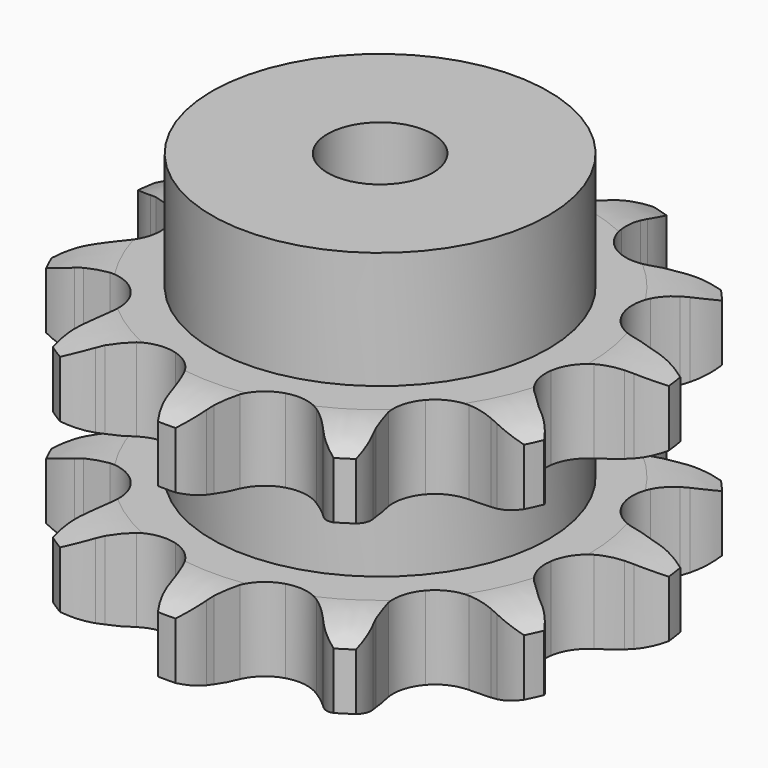
from build123d import *

# Parameters (mm, degrees)
PAD_DEPTH         = 47.7
SKETCH001_R       = 32
PAD001_DEPTH      = 70
SKETCH002_R       = 10
POCKET_DEPTH      = 0.0010001
POCKET_DEPTH_BACK = 70.001


with BuildPart() as part:
    # Sprocket → Pad (new body)
    with BuildSketch(Plane.XY):
        with BuildLine():
            ThreePointArc((-14.867367333, 50.6336032018), (-11.7124828061, 48.2458271339), (-9.3873921304, 45.0444642556))
            Line((-9.3873921304, 45.0444642556), (-8.7061246984, 43.7382927398))
            ThreePointArc((-8.7061246984, 43.7382927398), (-7.5124109734, 41.7336504323), (-6.1009120237, 39.8759061137))
            ThreePointArc((-6.1009120237, 39.8759061137), (-3.3596180258, 37.7982340011), (0, 37.0604122676))
            ThreePointArc((0, 37.0604122676), (3.3596180258, 37.7982340011), (6.1009120237, 39.8759061137))
            ThreePointArc((6.1009120237, 39.8759061137), (7.5124109734, 41.7336504323), (8.7061246984, 43.7382927398))
            Line((8.7061246984, 43.7382927398), (9.3873921304, 45.0444642556))
            ThreePointArc((9.3873921304, 45.0444642556), (11.7124828061, 48.2458271339), (14.867367333, 50.6336032018))
            ThreePointArc((14.867367333, 50.6336032018), (16.2304958817, 46.9192187995), (16.4556991832, 42.9690220447))
            Line((16.4556991832, 42.9690220447), (16.3226481812, 41.5018796612))
            ThreePointArc((16.3226481812, 41.5018796612), (16.2430726136, 39.1700968738), (16.4261286847, 36.8441489567))
            ThreePointArc((16.4261286847, 36.8441489567), (17.6089775956, 33.6142445241), (20.0363715836, 31.1772027483))
            ThreePointArc((20.0363715836, 31.1772027483), (23.2615586619, 29.9815512524), (26.6909562715, 30.2473448293))
            Line((26.6909562715, 30.2473448293), (30.9707645007, 32.0881069136))
            ThreePointArc((30.9707645007, 32.0881069136), (31.603914953, 32.4647291808), (32.2500527708, 32.8186073344))
            ThreePointArc((32.2500527708, 32.8186073344), (35.9368309594, 34.2547262421), (39.8818179185, 34.5577919452))
            ThreePointArc((39.8818179185, 34.5577919452), (39.0204068062, 30.6960900116), (37.0742222766, 27.2512189392))
            Line((37.0742222766, 27.2512189392), (36.1690955936, 26.0889130284))
            ThreePointArc((36.1690955936, 26.0889130284), (34.8414954139, 24.1703143206), (33.7379895971, 22.1146348342))
            ThreePointArc((33.7379895971, 22.1146348342), (32.9868472495, 18.7579699175), (33.7113367597, 15.395451644))
            ThreePointArc((33.7113367597, 15.395451644), (35.7781187812, 12.6459378206), (38.8068104924, 11.0154652791))
            Line((38.8068104924, 11.0154652791), (43.4024054031, 10.250173866))
            ThreePointArc((43.4024054031, 10.250173866), (44.1386628282, 10.2247017007), (44.8735495245, 10.1730744696))
            ThreePointArc((44.8735495245, 10.1730744696), (48.7514892006, 9.3879918007), (52.2340731064, 7.5101259196))
            ThreePointArc((52.2340731064, 7.5101259196), (49.4216142748, 4.7271695332), (45.9219417511, 2.8813463684))
            Line((45.9219417511, 2.8813463684), (44.5321107136, 2.3929008445))
            ThreePointArc((44.5321107136, 2.3929008445), (42.3779895985, 1.4966277499), (40.3382771937, 0.3638804065))
            ThreePointArc((40.3382771937, 0.3638804065), (37.8916259756, -2.0538276004), (36.6831907074, -5.2742465782))
            ThreePointArc((36.6831907074, -5.2742465782), (36.9353789836, -8.7046715174), (38.6017765778, -11.7137466656))
            Line((38.6017765778, -11.7137466656), (42.0540892567, -14.8421169597))
            ThreePointArc((42.0540892567, -14.8421169597), (42.6596971244, -15.261596325), (43.2500113654, -15.7023376597))
            ThreePointArc((43.2500113654, -15.7023376597), (46.0878940821, -18.459363705), (48.0023791513, -21.9219520214))
            ThreePointArc((48.0023791513, -21.9219520214), (44.1318084076, -22.7425938714), (40.1897691886, -22.4033333157))
            Line((40.1897691886, -22.4033333157), (38.7564953309, -22.0628404501))
            ThreePointArc((38.7564953309, -22.0628404501), (36.4597715142, -21.6522275567), (34.131446798, -21.5024034793))
            ThreePointArc((34.131446798, -21.5024034793), (30.7660811839, -22.2135493668), (28.0083907967, -24.2694087779))
            ThreePointArc((28.0083907967, -24.2694087779), (26.3659173315, -27.2916091528), (26.1409513468, -30.7239268094))
            Line((26.1409513468, -30.7239268094), (27.3538969113, -35.2221405202))
            ThreePointArc((27.3538969113, -35.2221405202), (27.6365790026, -35.9024453508), (27.8949001878, -36.5923685295))
            ThreePointArc((27.8949001878, -36.5923685295), (28.7917182341, -40.4460016621), (28.5302689843, -44.3939650887))
            ThreePointArc((28.5302689843, -44.3939650887), (24.8304651914, -42.9917444133), (21.697628876, -40.5751129665))
            Line((21.697628876, -40.5751129665), (20.675966521, -39.5137857903))
            ThreePointArc((20.675966521, -39.5137857903), (18.9658335865, -37.9266536014), (17.0881232051, -36.5418261891))
            ThreePointArc((17.0881232051, -36.5418261891), (13.872522999, -35.3206261627), (10.4411247058, -35.55920517))
            ThreePointArc((10.4411247058, -35.55920517), (7.4254632194, -37.2136537156), (5.3805587664, -39.9794772761))
            Line((5.3805587664, -39.9794772761), (3.96903557, -44.4193833332))
            ThreePointArc((3.96903557, -44.4193833332), (3.8390423182, -45.1445216523), (3.6833552966, -45.8645809405))
            ThreePointArc((3.6833552966, -45.8645809405), (2.3543752794, -49.5913198692), (0, -52.7712079132))
            ThreePointArc((0, -52.7712079132), (-2.3543752794, -49.5913198692), (-3.6833552966, -45.8645809405))
            Line((-3.6833552966, -45.8645809405), (-3.96903557, -44.4193833332))
            ThreePointArc((-3.96903557, -44.4193833332), (-4.5496224987, -42.1596351046), (-5.3805587664, -39.9794772761))
            ThreePointArc((-5.3805587664, -39.9794772761), (-7.4254632194, -37.2136537156), (-10.4411247058, -35.55920517))
            ThreePointArc((-10.4411247058, -35.55920517), (-13.872522999, -35.3206261627), (-17.0881232051, -36.5418261891))
            Line((-17.0881232051, -36.5418261891), (-20.675966521, -39.5137857903))
            ThreePointArc((-20.675966521, -39.5137857903), (-21.1773631768, -40.0535313051), (-21.697628876, -40.5751129665))
            ThreePointArc((-21.697628876, -40.5751129665), (-24.8304651914, -42.9917444133), (-28.5302689843, -44.3939650887))
            ThreePointArc((-28.5302689843, -44.3939650887), (-28.7917182341, -40.4460016621), (-27.8949001878, -36.5923685295))
            Line((-27.8949001878, -36.5923685295), (-27.3538969113, -35.2221405202))
            ThreePointArc((-27.3538969113, -35.2221405202), (-26.6206055867, -33.0072303478), (-26.1409513468, -30.7239268094))
            ThreePointArc((-26.1409513468, -30.7239268094), (-26.3659173315, -27.2916091528), (-28.0083907967, -24.2694087779))
            ThreePointArc((-28.0083907967, -24.2694087779), (-30.7660811839, -22.2135493668), (-34.131446798, -21.5024034793))
            Line((-34.131446798, -21.5024034793), (-38.7564953309, -22.0628404501))
            ThreePointArc((-38.7564953309, -22.0628404501), (-39.4701054953, -22.2458277733), (-40.1897691886, -22.4033333157))
            ThreePointArc((-40.1897691886, -22.4033333157), (-44.1318084076, -22.7425938714), (-48.0023791513, -21.9219520214))
            ThreePointArc((-48.0023791513, -21.9219520214), (-46.0878940821, -18.459363705), (-43.2500113654, -15.7023376597))
            Line((-43.2500113654, -15.7023376597), (-42.0540892567, -14.8421169597))
            ThreePointArc((-42.0540892567, -14.8421169597), (-40.2397344931, -13.3752631736), (-38.6017765778, -11.7137466656))
            ThreePointArc((-38.6017765778, -11.7137466656), (-36.9353789836, -8.7046715174), (-36.6831907074, -5.2742465782))
            ThreePointArc((-36.6831907074, -5.2742465782), (-37.8916259756, -2.0538276004), (-40.3382771937, 0.3638804065))
            Line((-40.3382771937, 0.3638804065), (-44.5321107136, 2.3929008445))
            ThreePointArc((-44.5321107136, 2.3929008445), (-45.2313682015, 2.624768895), (-45.9219417511, 2.8813463684))
            ThreePointArc((-45.9219417511, 2.8813463684), (-49.4216142748, 4.7271695332), (-52.2340731064, 7.5101259196))
            ThreePointArc((-52.2340731064, 7.5101259196), (-48.7514892006, 9.3879918007), (-44.8735495245, 10.1730744696))
            Line((-44.8735495245, 10.1730744696), (-43.4024054031, 10.250173866))
            ThreePointArc((-43.4024054031, 10.250173866), (-41.0830320183, 10.5032555532), (-38.8068104924, 11.0154652791))
            ThreePointArc((-38.8068104924, 11.0154652791), (-35.7781187812, 12.6459378206), (-33.7113367597, 15.395451644))
            ThreePointArc((-33.7113367597, 15.395451644), (-32.9868472495, 18.7579699175), (-33.7379895971, 22.1146348342))
            Line((-33.7379895971, 22.1146348342), (-36.1690955936, 26.0889130284))
            ThreePointArc((-36.1690955936, 26.0889130284), (-36.6319910933, 26.6620199849), (-37.0742222766, 27.2512189392))
            ThreePointArc((-37.0742222766, 27.2512189392), (-39.0204068062, 30.6960900116), (-39.8818179185, 34.5577919452))
            ThreePointArc((-39.8818179185, 34.5577919452), (-35.9368309594, 34.2547262421), (-32.2500527708, 32.8186073344))
            Line((-32.2500527708, 32.8186073344), (-30.9707645007, 32.0881069136))
            ThreePointArc((-30.9707645007, 32.0881069136), (-28.8827571566, 31.0470648543), (-26.6909562715, 30.2473448293))
            ThreePointArc((-26.6909562715, 30.2473448293), (-23.2615586619, 29.9815512524), (-20.0363715836, 31.1772027483))
            ThreePointArc((-20.0363715836, 31.1772027483), (-17.6089775956, 33.6142445241), (-16.4261286847, 36.8441489567))
            Line((-16.4261286847, 36.8441489567), (-16.3226481812, 41.5018796612))
            ThreePointArc((-16.3226481812, 41.5018796612), (-16.4022156422, 42.2342681144), (-16.4556991832, 42.9690220447))
            ThreePointArc((-16.4556991832, 42.9690220447), (-16.2304958817, 46.9192187995), (-14.867367333, 50.6336032018))
        make_face()
    extrude(amount=PAD_DEPTH)

    # Sketch → Groove (revolve, cut)
    with BuildSketch(Plane.XZ):
        with BuildLine():
            ThreePointArc((39.6257022694, 0), (45.3265793949, 0.6326982121), (50.75, 2.5))
            Line((50.75, 2.5), (50.75, 13.3))
            ThreePointArc((50.75, 13.3), (45.3265793949, 15.1673017879), (39.6257022694, 15.8))
            Line((32, 15.8), (39.6257022694, 15.8))
            Line((32, 31.9), (32, 15.8))
            Line((39.6257022694, 31.9), (32, 31.9))
            ThreePointArc((39.6257022694, 31.9), (45.3265793949, 32.5326982121), (50.75, 34.4))
            Line((50.75, 34.4), (50.75, 45.2))
            ThreePointArc((50.75, 45.2), (45.3265793949, 47.0673017879), (39.6257022694, 47.7))
            Line((39.6257022694, 47.7), (60.75, 47.7))
            Line((60.75, 47.7), (60.75, 0))
            Line((39.6257022694, 0), (60.75, 0))
        make_face()
    revolve(axis=Axis((0, 0, 0), (0, 0, 1)), mode=Mode.SUBTRACT)

    # Sketch001 → Pad001 (join)
    with BuildSketch(Plane.XY):
        Circle(SKETCH001_R)
    extrude(amount=PAD001_DEPTH)

    # Sketch002 → Pocket (cut, two sides)
    with BuildSketch(Plane.XY) as pocket_sk:
        Circle(SKETCH002_R)
    extrude(amount=-POCKET_DEPTH, mode=Mode.SUBTRACT)
    extrude(pocket_sk.sketch, amount=POCKET_DEPTH_BACK, mode=Mode.SUBTRACT)


solid = part.part
